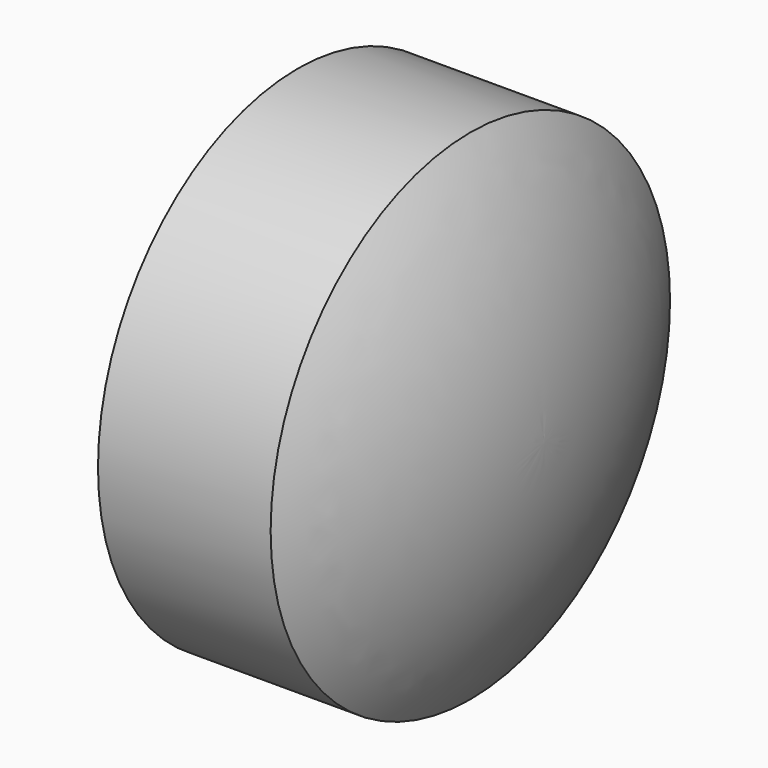
from build123d import *


with BuildPart() as f1:
    # F0 (on Front) → F1 (revolve)
    with BuildSketch(Plane.XZ):
        with BuildLine():
            Line((-13.349096, 0), (0, 0))
            ThreePointArc((0, 0), (-0.774936, 5.378153), (-3.036696, 10.31875))
            Line((-3.036696, 10.31875), (-10.174096, 10.31875))
            Line((-10.174096, 10.31875), (-10.174096, 3.96875))
            Line((-10.174096, 3.96875), (-13.349096, 3.96875))
            Line((-13.349096, 3.96875), (-13.349096, 0))
        make_face()
    revolve(axis=Axis((6.650336, 0, 0), (1, 0, 0)))


solid = f1.part
